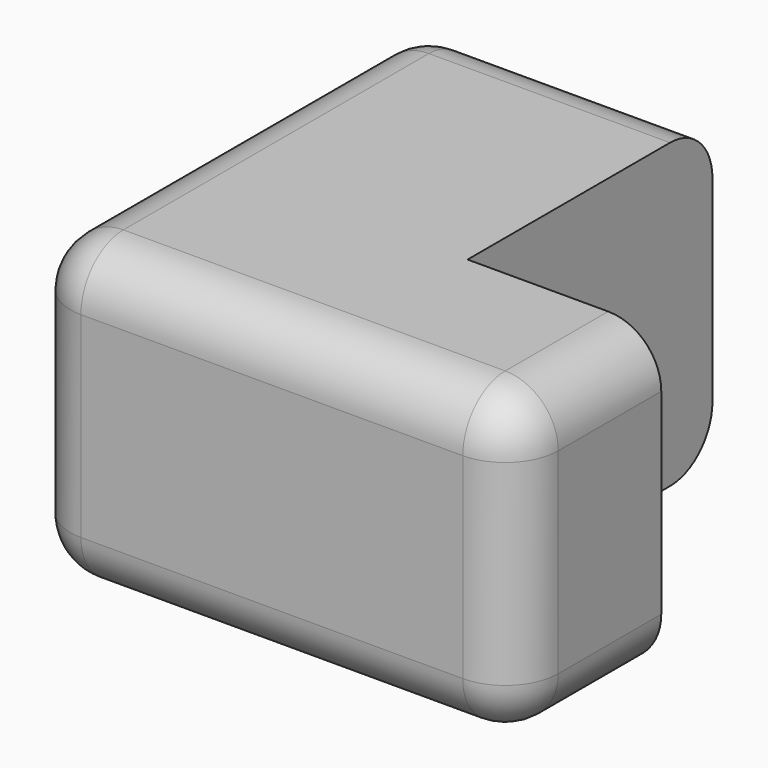
from build123d import *

# Parameters (mm, degrees)
F1_DEPTH = 14.25
F2_R     = 5
F4_DEPTH = 3.9
F5_DEPTH = 2.3
F8_DEPTH = 10.5


with BuildPart() as f1:
    # F0 (on Top) → F1 (new body, symmetric)
    with BuildSketch(Plane.XY):
        Polygon((-23, -23), (23, -23), (23, -5.86), (4.74, -5.86), (4.74, 23), (-23, 23), align=None)
    extrude(amount=F1_DEPTH, both=True)

    # F2
    f2_edges = [f1.edges().sort_by_distance(p)[0] for p in [
        (23, -14.43, 14.25),
        (23, -14.43, -14.25),
        (-9.13, 23, 14.25),
        (-23, 0, 14.25),
        (-23, 23, 0),
        (-9.13, 23, -14.25),
        (-23, 0, -14.25),
        (0, -23, -14.25),
        (0, -23, 14.25),
        (-23, -23, 0),
        (23, -23, 0),
    ]]
    fillet(f2_edges, radius=F2_R)

    # F7 (on face) → F8 (cut)
    with BuildSketch(Plane(origin=(0, -5.86, 0), x_dir=(-1, 0, 0), z_dir=(0, 1, 0))):
        with BuildLine():
            Line((-8.92, -4.06), (-8.92, 0))
            Line((-8.92, 0), (-9.12, 0))
            ThreePointArc((-9.12, 0), (-12.4744714263, 4.5403744339), (-17.8, 2.6678830559))
            Line((-17.8, 2.6678830559), (-17.8, 1.5))
            Line((-17.8, 1.5), (-15.8, 0))
            Line((-15.8, 0), (-17.8, -1.5))
            Line((-17.8, -1.5), (-17.8, -4.06))
            ThreePointArc((-17.8, -4.06), (-16.4995541085, -7.1995541085), (-13.36, -8.5))
            ThreePointArc((-13.36, -8.5), (-10.2204458915, -7.1995541085), (-8.92, -4.06))
        make_face()
        with BuildLine():
            Line((-8.92, 0), (-8.92, 4.06))
            ThreePointArc((-8.92, 4.06), (-10.2204458915, 7.1995541085), (-13.36, 8.5))
            ThreePointArc((-13.36, 8.5), (-16.4995541085, 7.1995541085), (-17.8, 4.06))
            Line((-17.8, 4.06), (-17.8, 2.6678830559))
            ThreePointArc((-17.8, 2.6678830559), (-12.4744714263, 4.5403744339), (-9.12, 0))
            Line((-9.12, 0), (-8.92, 0))
        make_face()
    extrude(amount=-F8_DEPTH, mode=Mode.SUBTRACT)


with BuildPart() as f4:
    # F3 (on face) → F4 (new body)
    with BuildSketch(Plane(origin=(0, -5.86, 0), x_dir=(-1, 0, 0), z_dir=(0, 1, 0))):
        with BuildLine():
            ThreePointArc((-16.37, 0), (-13.87, 2.5), (-11.37, 0))
            Line((-11.37, 0), (-9.12, 0))
            ThreePointArc((-9.12, 0), (-13.87, 4.75), (-18.62, 0))
            Line((-18.62, 0), (-16.37, 0))
        make_face()
        with BuildLine():
            Line((-16.37, 0), (-11.37, 0))
            ThreePointArc((-11.37, 0), (-13.87, 2.5), (-16.37, 0))
        make_face()
        with BuildLine():
            ThreePointArc((-16.37, 0), (-13.87, -2.5), (-11.37, 0))
            Line((-11.37, 0), (-16.37, 0))
        make_face()
        with BuildLine():
            Line((-9.12, 0), (-11.37, 0))
            ThreePointArc((-11.37, 0), (-13.87, -2.5), (-16.37, 0))
            Line((-16.37, 0), (-18.62, 0))
            ThreePointArc((-18.62, 0), (-13.87, -4.75), (-9.12, 0))
        make_face()
    extrude(amount=F4_DEPTH)

    # F3 (on face) → F5 (cut)
    with BuildSketch(Plane(origin=(0, -5.86, 0), x_dir=(-1, 0, 0), z_dir=(0, 1, 0))):
        with BuildLine():
            ThreePointArc((-16.37, 0), (-13.87, 2.5), (-11.37, 0))
            Line((-11.37, 0), (-9.12, 0))
            ThreePointArc((-9.12, 0), (-13.87, 4.75), (-18.62, 0))
            Line((-18.62, 0), (-16.37, 0))
        make_face()
        with BuildLine():
            Line((-9.12, 0), (-11.37, 0))
            ThreePointArc((-11.37, 0), (-13.87, -2.5), (-16.37, 0))
            Line((-16.37, 0), (-18.62, 0))
            ThreePointArc((-18.62, 0), (-13.87, -4.75), (-9.12, 0))
        make_face()
    extrude(amount=F5_DEPTH, mode=Mode.SUBTRACT)


solid = Compound([f1.part, f4.part])
